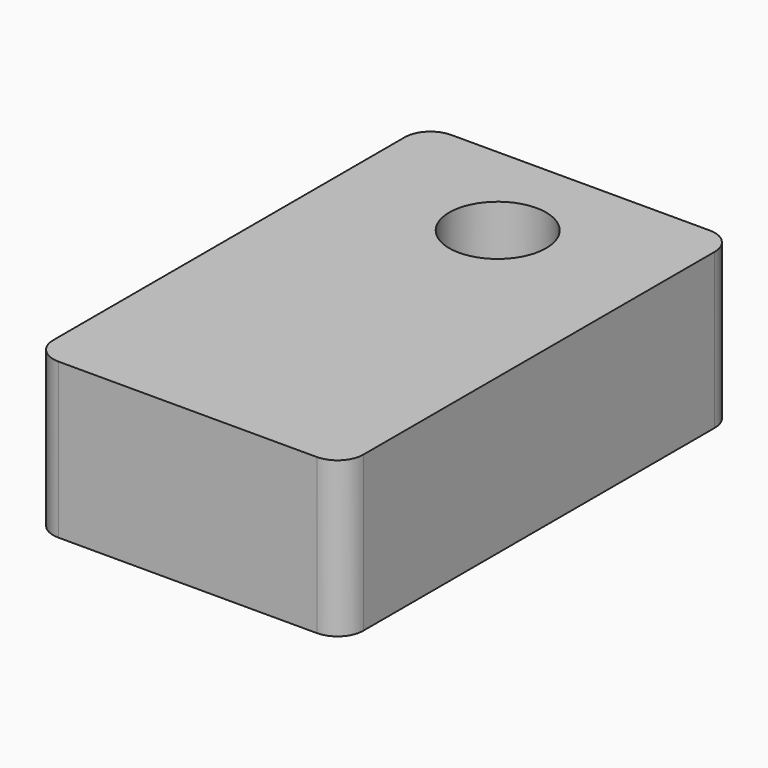
from build123d import *

# Parameters (mm, degrees)
SKETCH_R  = 3.75
PAD_DEPTH = 12


with BuildPart() as part:
    # Sketch → Pad (new body)
    with BuildSketch(Plane.XY):
        with BuildLine():
            Line((-10, 8), (10, 8))
            ThreePointArc((12, 6), (11.414214, 7.414214), (10, 8))
            Line((12, -28), (12, 6))
            ThreePointArc((10, -30), (11.414214, -29.414214), (12, -28))
            Line((-10, -30), (10, -30))
            ThreePointArc((-12, -28), (-11.414214, -29.414214), (-10, -30))
            Line((-12, 6), (-12, -28))
            ThreePointArc((-10, 8), (-11.414214, 7.414214), (-12, 6))
        make_face()
        Circle(SKETCH_R, mode=Mode.SUBTRACT)
    extrude(amount=PAD_DEPTH)


solid = part.part
